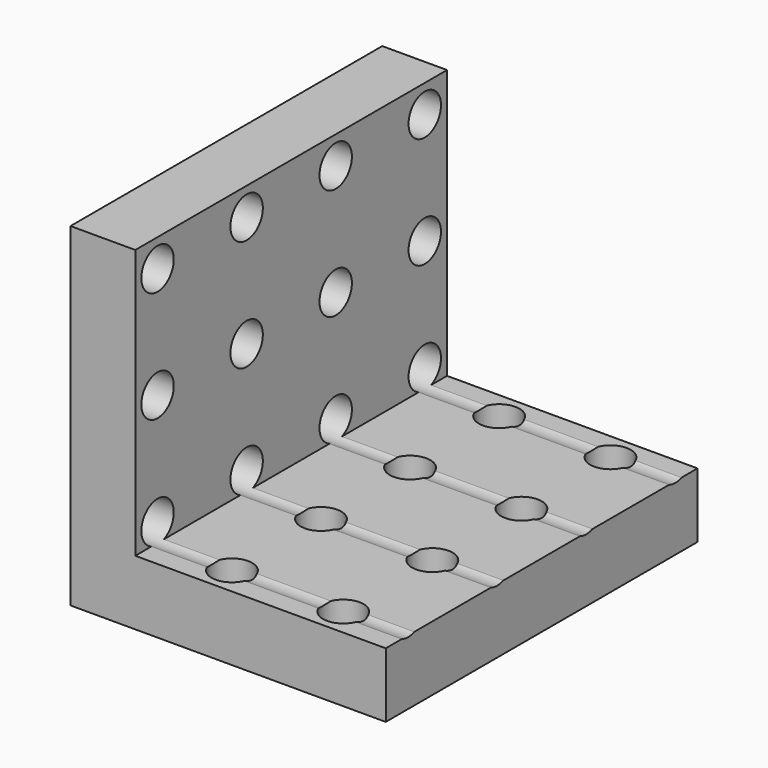
from build123d import *

# Parameters (mm, degrees)
F0_W     = 7.391951
F0_H     = 44.45
F1_DEPTH = 38.1
F0_W_2   = 28.569102
F0_R     = 2.3114
F2_DEPTH = 7.391959
F3_R     = 2.3114
F4_DEPTH = 50.8


with BuildPart() as f1:
    # F0 (on Top) → F1 (new body)
    with BuildSketch(Plane.XY):
        with Locations((-26.65034, 10.741919)):
            Rectangle(F0_W, F0_H)
    extrude(amount=F1_DEPTH)

    # F0 (on Top) → F2 (join)
    with BuildSketch(Plane.XY):
        with Locations((-8.669814, 10.741919)):
            Rectangle(F0_W_2, F0_H)
        with Locations((-14.471316, -8.308081)):
            Circle(F0_R, mode=Mode.SUBTRACT)
        with Locations((-14.471316, 4.391919)):
            Circle(F0_R, mode=Mode.SUBTRACT)
        with Locations((-1.771316, -8.308081)):
            Circle(F0_R, mode=Mode.SUBTRACT)
        with Locations((-1.771316, 4.391919)):
            Circle(F0_R, mode=Mode.SUBTRACT)
        with Locations((-14.471316, 17.091919)):
            Circle(F0_R, mode=Mode.SUBTRACT)
        with Locations((-14.471316, 29.791919)):
            Circle(F0_R, mode=Mode.SUBTRACT)
        with Locations((-1.771316, 17.091919)):
            Circle(F0_R, mode=Mode.SUBTRACT)
        with Locations((-1.771316, 29.791919)):
            Circle(F0_R, mode=Mode.SUBTRACT)
    extrude(amount=F2_DEPTH)

    # F3 (on face) → F4 (cut)
    with BuildSketch(Plane(origin=(-30.346316, 0, 0), x_dir=(0, -1, 0), z_dir=(-1, 0, 0))):
        with Locations((8.308081, 34.925)):
            Circle(F3_R)
        with Locations((-4.391919, 34.925)):
            Circle(F3_R)
        with Locations((-17.091919, 34.925)):
            Circle(F3_R)
        with Locations((-29.791919, 34.925)):
            Circle(F3_R)
        with Locations((-29.791919, 22.225)):
            Circle(F3_R)
        with Locations((-17.091919, 22.225)):
            Circle(F3_R)
        with Locations((-4.391919, 22.225)):
            Circle(F3_R)
        with Locations((8.308081, 22.225)):
            Circle(F3_R)
        with Locations((8.308081, 9.525)):
            Circle(F3_R)
        with Locations((-4.391919, 9.525)):
            Circle(F3_R)
        with Locations((-17.091919, 9.525)):
            Circle(F3_R)
        with Locations((-29.791919, 9.525)):
            Circle(F3_R)
    extrude(amount=-F4_DEPTH, mode=Mode.SUBTRACT)


solid = f1.part
